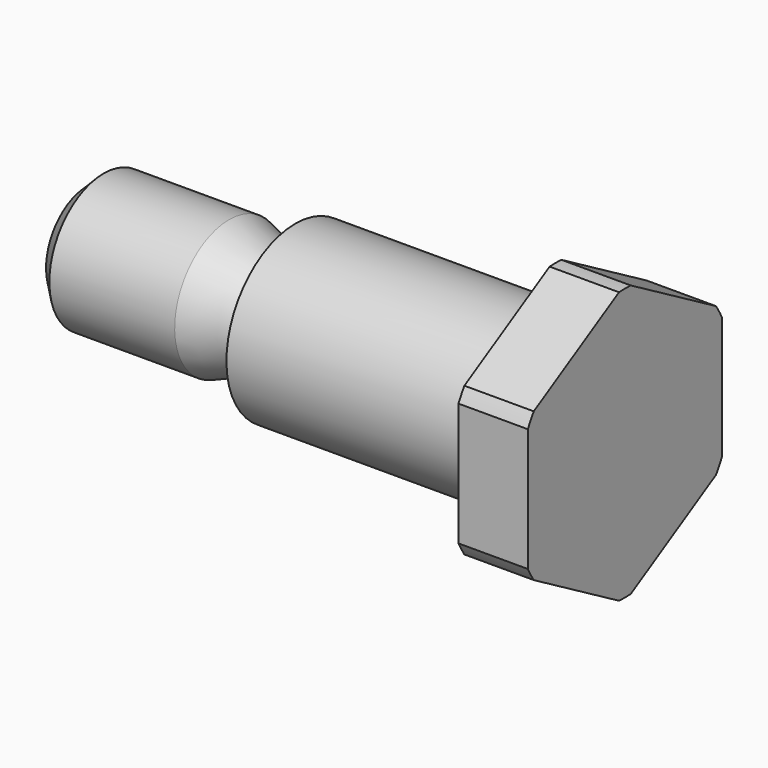
from build123d import *

# Parameters (mm, degrees)
F3_DEPTH = 3.175
F4_SIZE  = 0.762
F5_R     = 0.381
F6_R     = 0.381


with BuildPart() as f1:
    # F0 (on Front) → F1 (revolve)
    with BuildSketch(Plane.XZ):
        Polygon((-24.60625, 0), (0, 0), (0, 6.223), (-3.175, 6.223), (-3.175, 3.937), (-15.08125, 3.937), (-15.08125, 2.286), (-15.84325, 2.286), (-18.1112926098, 3.1115), (-24.60625, 3.1115), align=None)
    revolve(axis=Axis((2.7985820894, 0, 0), (1, 0, 0)))

    # F2 (on face) → F3 (cut, through all)
    with BuildSketch(Plane.YZ):
        with BuildLine():
            Line((-5.2128290459, 3.3988442651), (-0.3370709541, 6.2138645119))
            ThreePointArc((-0.3370709541, 6.2138645119), (-3.1115, 5.3892760878), (-5.2128290459, 3.3988442651))
        make_face()
        with BuildLine():
            ThreePointArc((5.2128290459, 3.3988442651), (3.1115, 5.3892760878), (0.3370709541, 6.2138645119))
            Line((0.3370709541, 6.2138645119), (5.2128290459, 3.3988442651))
        make_face()
        with BuildLine():
            ThreePointArc((6.223, 0), (6.0523861699, 1.447187151), (5.5499, 2.8150202468))
            Line((5.5499, 2.8150202468), (5.5499, -2.8150202468))
            ThreePointArc((5.5499, -2.8150202468), (6.0523861699, -1.447187151), (6.223, 0))
        make_face()
        with BuildLine():
            ThreePointArc((0.3370709541, -6.2138645119), (3.1115, -5.3892760878), (5.2128290459, -3.3988442651))
            Line((5.2128290459, -3.3988442651), (0.3370709541, -6.2138645119))
        make_face()
        with BuildLine():
            Line((-0.3370709541, -6.2138645119), (-5.2128290459, -3.3988442651))
            ThreePointArc((-5.2128290459, -3.3988442651), (-3.1115, -5.3892760878), (-0.3370709541, -6.2138645119))
        make_face()
        with BuildLine():
            Line((-5.5499, -2.8150202468), (-5.5499, 2.8150202468))
            ThreePointArc((-5.5499, 2.8150202468), (-6.223, 0), (-5.5499, -2.8150202468))
        make_face()
    extrude(amount=-F3_DEPTH, mode=Mode.SUBTRACT)

    # F4
    f4_edges = [f1.edges().sort_by_distance(p)[0] for p in [
        (-24.60625, 0, -3.1115),
    ]]
    chamfer(f4_edges, length=F4_SIZE)

    # F5
    f5_edges = [f1.edges().sort_by_distance(p)[0] for p in [
        (-3.175, 0, -3.937),
    ]]
    fillet(f5_edges, radius=F5_R)

    # F6
    f6_edges = [f1.edges().sort_by_distance(p)[0] for p in [
        (-15.08125, 0, -2.286),
    ]]
    fillet(f6_edges, radius=F6_R)


solid = f1.part
